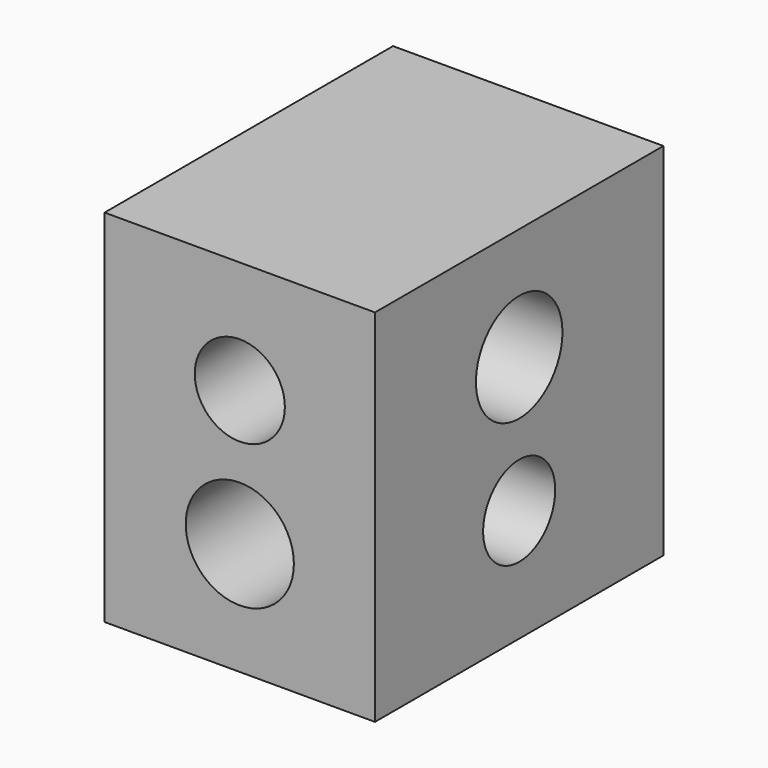
from build123d import *

# Parameters (mm, degrees)
F0_W          = 6
F0_H          = 8
F1_DEPTH      = 4
F1_DEPTH_BACK = 4
F2_R          = 1
F3_DEPTH      = 8.001
F4_R          = 1
F5_DEPTH      = 6.001
F6_R          = 1.2
F7_DEPTH      = 4
F8_R          = 1.2
F9_DEPTH      = 3


with BuildPart() as f1:
    # F0 (on Front) → F1 (new body, two sides)
    with BuildSketch(Plane.XZ) as f1_sk:
        Rectangle(F0_W, F0_H)
    extrude(amount=F1_DEPTH)
    extrude(f1_sk.sketch, amount=-F1_DEPTH_BACK)

    # F2 (on face) → F3 (cut, through all)
    with BuildSketch(Plane.XZ.offset(4)):
        with Locations((0, 1.5)):
            Circle(F2_R)
    extrude(amount=-F3_DEPTH, mode=Mode.SUBTRACT)

    # F4 (on face) → F5 (cut, through all)
    with BuildSketch(Plane.YZ.offset(3)):
        with Locations((0, -1.5)):
            Circle(F4_R)
    extrude(amount=-F5_DEPTH, mode=Mode.SUBTRACT)

    # F6 (on face) → F7 (cut)
    with BuildSketch(Plane.XZ.offset(4)):
        with Locations((0, -1.5)):
            Circle(F6_R)
    extrude(amount=-F7_DEPTH, mode=Mode.SUBTRACT)

    # F8 (on face) → F9 (cut)
    with BuildSketch(Plane.YZ.offset(3)):
        with Locations((0, 1.5)):
            Circle(F8_R)
    extrude(amount=-F9_DEPTH, mode=Mode.SUBTRACT)


solid = f1.part
